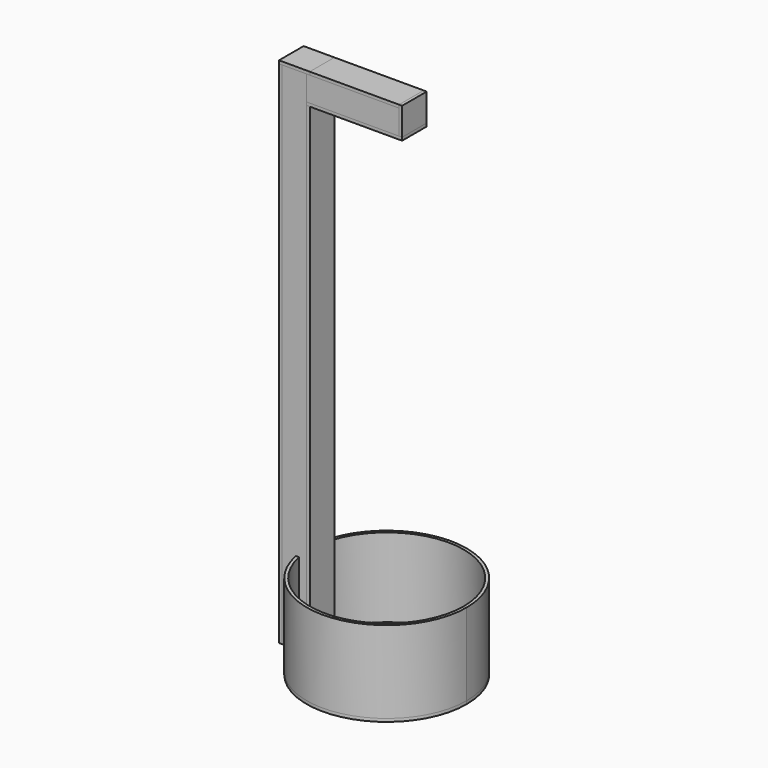
from build123d import *

# Parameters (mm, degrees)
F4_W           = 3
F4_H           = 24
F4_H_2         = 3
F5_DEPTH       = 3
F6_DEPTH       = 3
F7_DEPTH       = 80
F8_DEPTH       = 500
F9_DEPTH       = 500
F10_DEPTH      = 473
F11_W          = 3
F11_H          = 24
F11_H_2        = 3
F12_DEPTH      = 90
F12_DEPTH_BACK = 3
F11_W_2        = 24
F13_DEPTH      = 90
F13_DEPTH_BACK = 3
F14_W          = 30
F14_H          = 27
F14_H_2        = 3
F15_DEPTH      = 3
F16_W          = 27
F16_H          = 30
F16_W_2        = 3
F17_DEPTH      = 3
F18_R          = 3
F19_DEPTH      = 488


with BuildPart() as f5:
    # F4 (on Top) → F5 (new body)
    with BuildSketch(Plane.XY):
        with BuildLine():
            Line((-68.3739716559, 15), (-73.4846922835, 15))
            ThreePointArc((-73.4846922835, 15), (-73.7744849304, 13.5027913134), (-74.0337760755, 12))
            Line((-74.0337760755, 12), (-68.9637585983, 12))
            ThreePointArc((-68.9637585983, 12), (-68.6852461438, 13.5032204366), (-68.3739716559, 15))
        make_face()
        with BuildLine():
            Line((-68.9637585983, 12), (-74.0337760755, 12))
            ThreePointArc((-74.0337760755, 12), (-75, 0), (-74.0337760755, -12))
            Line((-74.0337760755, -12), (-68.9637585983, -12))
            ThreePointArc((-68.9637585983, -12), (-70, 0), (-68.9637585983, 12))
        make_face()
        with BuildLine():
            ThreePointArc((-74.0337760755, -12), (-73.7744849304, -13.5027913134), (-73.4846922835, -15))
            Line((-73.4846922835, -15), (-68.3739716559, -15))
            ThreePointArc((-68.3739716559, -15), (-68.6852461438, -13.5032204366), (-68.9637585983, -12))
            Line((-68.9637585983, -12), (-74.0337760755, -12))
        make_face()
        with BuildLine():
            ThreePointArc((-73.4846922835, -15), (7.5381721504, -74.6202114754), (75, 0))
            ThreePointArc((75, 0), (7.5381721504, 74.6202114754), (-73.4846922835, 15))
            Line((-73.4846922835, 15), (-68.3739716559, 15))
            ThreePointArc((-68.3739716559, 15), (7.5439374364, 69.5923056663), (70, 0))
            ThreePointArc((70, 0), (7.5439374364, -69.5923056663), (-68.3739716559, -15))
            Line((-68.3739716559, -15), (-73.4846922835, -15))
        make_face()
        with BuildLine():
            ThreePointArc((-74.0337760755, 12), (-73.7744849304, 13.5027913134), (-73.4846922835, 15))
            Line((-73.4846922835, 15), (-76.544104933, 15))
            ThreePointArc((-76.544104933, 15), (-76.8223957656, 13.5025741556), (-77.071395472, 12))
            Line((-77.071395472, 12), (-74.0337760755, 12))
        make_face()
        with BuildLine():
            ThreePointArc((-74.0337760755, -12), (-75, 0), (-74.0337760755, 12))
            Line((-74.0337760755, 12), (-77.071395472, 12))
            ThreePointArc((-77.071395472, 12), (-78, 0), (-77.071395472, -12))
            Line((-77.071395472, -12), (-74.0337760755, -12))
        make_face()
        with BuildLine():
            Line((-76.544104933, -15), (-73.4846922835, -15))
            ThreePointArc((-73.4846922835, -15), (-73.7744849304, -13.5027913134), (-74.0337760755, -12))
            Line((-74.0337760755, -12), (-77.071395472, -12))
            ThreePointArc((-77.071395472, -12), (-76.8223957656, -13.5025741556), (-76.544104933, -15))
        make_face()
        with BuildLine():
            ThreePointArc((-73.4846922835, 15), (7.5381721504, 74.6202114754), (75, 0))
            ThreePointArc((75, 0), (7.5381721504, -74.6202114754), (-73.4846922835, -15))
            Line((-73.4846922835, -15), (-76.544104933, -15))
            ThreePointArc((-76.544104933, -15), (7.5352443631, -77.6351730364), (78, 0))
            ThreePointArc((78, 0), (7.5352443631, 77.6351730364), (-76.544104933, 15))
            Line((-76.544104933, 15), (-73.4846922835, 15))
        make_face()
        with BuildLine():
            Line((-66, 12), (-68.9637585983, 12))
            ThreePointArc((-68.9637585983, 12), (-70, 0), (-68.9637585983, -12))
            Line((-68.9637585983, -12), (-66, -12))
            Line((-66, -12), (-66, 12))
        make_face()
        with BuildLine():
            ThreePointArc((70, 0), (7.5439374364, 69.5923056663), (-68.3739716559, 15))
            Line((-68.3739716559, 15), (-66, 15))
            Line((-66, 15), (-63, 15))
            Line((-63, 15), (-63, 12))
            Line((-63, 12), (-63, -12))
            Line((-63, -12), (-63, -15))
            Line((-63, -15), (-66, -15))
            Line((-66, -15), (-68.3739716559, -15))
            ThreePointArc((-68.3739716559, -15), (7.5439374364, -69.5923056663), (70, 0))
        make_face()
        with BuildLine():
            Line((-66, 15), (-68.3739716559, 15))
            ThreePointArc((-68.3739716559, 15), (-68.6852461438, 13.5032204366), (-68.9637585983, 12))
            Line((-68.9637585983, 12), (-66, 12))
            Line((-66, 12), (-66, 15))
        make_face()
        with Locations((-64.5, 0)):
            Rectangle(F4_W, F4_H)
        with Locations((-64.5, 13.5)):
            Rectangle(F4_W, F4_H_2)
        with BuildLine():
            ThreePointArc((-68.9637585983, -12), (-68.6852461438, -13.5032204366), (-68.3739716559, -15))
            Line((-68.3739716559, -15), (-66, -15))
            Line((-66, -15), (-66, -12))
            Line((-66, -12), (-68.9637585983, -12))
        make_face()
        with Locations((-64.5, -13.5)):
            Rectangle(F4_W, F4_H_2)
    extrude(amount=-F5_DEPTH)


with BuildPart() as f6:
    # F4 (on Top) → F6 (new body)
    with BuildSketch(Plane.XY):
        with BuildLine():
            ThreePointArc((-73.4846922835, -15), (7.5381721504, -74.6202114754), (75, 0))
            ThreePointArc((75, 0), (7.5381721504, 74.6202114754), (-73.4846922835, 15))
            Line((-73.4846922835, 15), (-68.3739716559, 15))
            ThreePointArc((-68.3739716559, 15), (7.5439374364, 69.5923056663), (70, 0))
            ThreePointArc((70, 0), (7.5439374364, -69.5923056663), (-68.3739716559, -15))
            Line((-68.3739716559, -15), (-73.4846922835, -15))
        make_face()
    extrude(amount=F6_DEPTH)


with BuildPart() as f7:
    # F4 (on Top) → F7 (new body)
    with BuildSketch(Plane.XY):
        with BuildLine():
            ThreePointArc((-73.4846922835, 15), (7.5381721504, 74.6202114754), (75, 0))
            ThreePointArc((75, 0), (7.5381721504, -74.6202114754), (-73.4846922835, -15))
            Line((-73.4846922835, -15), (-76.544104933, -15))
            ThreePointArc((-76.544104933, -15), (7.5352443631, -77.6351730364), (78, 0))
            ThreePointArc((78, 0), (7.5352443631, 77.6351730364), (-76.544104933, 15))
            Line((-76.544104933, 15), (-73.4846922835, 15))
        make_face()
        with BuildLine():
            ThreePointArc((-74.0337760755, 12), (-73.7744849304, 13.5027913134), (-73.4846922835, 15))
            Line((-73.4846922835, 15), (-76.544104933, 15))
            ThreePointArc((-76.544104933, 15), (-76.8223957656, 13.5025741556), (-77.071395472, 12))
            Line((-77.071395472, 12), (-74.0337760755, 12))
        make_face()
        with BuildLine():
            Line((-76.544104933, -15), (-73.4846922835, -15))
            ThreePointArc((-73.4846922835, -15), (-73.7744849304, -13.5027913134), (-74.0337760755, -12))
            Line((-74.0337760755, -12), (-77.071395472, -12))
            ThreePointArc((-77.071395472, -12), (-76.8223957656, -13.5025741556), (-76.544104933, -15))
        make_face()
    extrude(amount=F7_DEPTH)


with BuildPart() as f8:
    # F4 (on Top) → F8 (new body)
    with BuildSketch(Plane.XY):
        with BuildLine():
            ThreePointArc((-77.071395472, 12), (-76.8223957656, 13.5025741556), (-76.544104933, 15))
            Line((-76.544104933, 15), (-90, 15))
            Line((-90, 15), (-90, 12))
            Line((-90, 12), (-77.071395472, 12))
        make_face()
        with BuildLine():
            ThreePointArc((-74.0337760755, 12), (-73.7744849304, 13.5027913134), (-73.4846922835, 15))
            Line((-73.4846922835, 15), (-76.544104933, 15))
            ThreePointArc((-76.544104933, 15), (-76.8223957656, 13.5025741556), (-77.071395472, 12))
            Line((-77.071395472, 12), (-74.0337760755, 12))
        make_face()
        with BuildLine():
            Line((-68.3739716559, 15), (-73.4846922835, 15))
            ThreePointArc((-73.4846922835, 15), (-73.7744849304, 13.5027913134), (-74.0337760755, 12))
            Line((-74.0337760755, 12), (-68.9637585983, 12))
            ThreePointArc((-68.9637585983, 12), (-68.6852461438, 13.5032204366), (-68.3739716559, 15))
        make_face()
        with BuildLine():
            Line((-66, 15), (-68.3739716559, 15))
            ThreePointArc((-68.3739716559, 15), (-68.6852461438, 13.5032204366), (-68.9637585983, 12))
            Line((-68.9637585983, 12), (-66, 12))
            Line((-66, 12), (-66, 15))
        make_face()
        with Locations((-64.5, 13.5)):
            Rectangle(F4_W, F4_H_2)
        with Locations((-91.5, 13.5)):
            Rectangle(F4_W, F4_H_2)
    extrude(amount=F8_DEPTH)


with BuildPart() as f8b:
    # F4 (on Top) → F8, piece 2 (new body)
    with BuildSketch(Plane.XY):
        with Locations((-64.5, -13.5)):
            Rectangle(F4_W, F4_H_2)
        with BuildLine():
            ThreePointArc((-68.9637585983, -12), (-68.6852461438, -13.5032204366), (-68.3739716559, -15))
            Line((-68.3739716559, -15), (-66, -15))
            Line((-66, -15), (-66, -12))
            Line((-66, -12), (-68.9637585983, -12))
        make_face()
        with BuildLine():
            ThreePointArc((-74.0337760755, -12), (-73.7744849304, -13.5027913134), (-73.4846922835, -15))
            Line((-73.4846922835, -15), (-68.3739716559, -15))
            ThreePointArc((-68.3739716559, -15), (-68.6852461438, -13.5032204366), (-68.9637585983, -12))
            Line((-68.9637585983, -12), (-74.0337760755, -12))
        make_face()
        with BuildLine():
            Line((-76.544104933, -15), (-73.4846922835, -15))
            ThreePointArc((-73.4846922835, -15), (-73.7744849304, -13.5027913134), (-74.0337760755, -12))
            Line((-74.0337760755, -12), (-77.071395472, -12))
            ThreePointArc((-77.071395472, -12), (-76.8223957656, -13.5025741556), (-76.544104933, -15))
        make_face()
        with BuildLine():
            Line((-90, -15), (-76.544104933, -15))
            ThreePointArc((-76.544104933, -15), (-76.8223957656, -13.5025741556), (-77.071395472, -12))
            Line((-77.071395472, -12), (-90, -12))
            Line((-90, -12), (-90, -15))
        make_face()
        with Locations((-91.5, -13.5)):
            Rectangle(F4_W, F4_H_2)
    extrude(amount=F8_DEPTH)


with BuildPart() as f9:
    # F4 (on Top) → F9 (new body)
    with BuildSketch(Plane.XY):
        with Locations((-91.5, 0)):
            Rectangle(F4_W, F4_H)
        with Locations((-91.5, -13.5)):
            Rectangle(F4_W, F4_H_2)
        with Locations((-91.5, 13.5)):
            Rectangle(F4_W, F4_H_2)
    extrude(amount=F9_DEPTH)


with BuildPart() as f10:
    # F4 (on Top) → F10 (new body)
    with BuildSketch(Plane.XY):
        with Locations((-64.5, 0)):
            Rectangle(F4_W, F4_H)
        with Locations((-64.5, -13.5)):
            Rectangle(F4_W, F4_H_2)
        with Locations((-64.5, 13.5)):
            Rectangle(F4_W, F4_H_2)
    extrude(amount=F10_DEPTH)


with BuildPart() as f12:
    # F11 (on face) → F12 (new body, two sides)
    with BuildSketch(Plane.YZ.offset(-63)) as f12_sk:
        with Locations((-13.5, 485)):
            Rectangle(F11_W, F11_H)
        with Locations((-13.5, 498.5)):
            Rectangle(F11_W, F11_H_2)
        with Locations((-13.5, 471.5)):
            Rectangle(F11_W, F11_H_2)
    extrude(amount=F12_DEPTH)
    extrude(f12_sk.sketch, amount=-F12_DEPTH_BACK)


with BuildPart() as f12b:
    # F11 (on face) → F12, piece 2 (new body, two sides)
    with BuildSketch(Plane.YZ.offset(-63)) as f12_2_sk:
        with Locations((13.5, 498.5)):
            Rectangle(F11_W, F11_H_2)
        with Locations((13.5, 485)):
            Rectangle(F11_W, F11_H)
        with Locations((13.5, 471.5)):
            Rectangle(F11_W, F11_H_2)
    extrude(amount=F12_DEPTH)
    extrude(f12_2_sk.sketch, amount=-F12_DEPTH_BACK)


with BuildPart() as f13:
    # F11 (on face) → F13 (new body, two sides)
    with BuildSketch(Plane.YZ.offset(-63)) as f13_sk:
        with Locations((0, 498.5)):
            Rectangle(F11_W_2, F11_H_2)
        with Locations((-13.5, 498.5)):
            Rectangle(F11_W, F11_H_2)
        with Locations((13.5, 498.5)):
            Rectangle(F11_W, F11_H_2)
    extrude(amount=F13_DEPTH)
    extrude(f13_sk.sketch, amount=-F13_DEPTH_BACK)


with BuildPart() as f13b:
    # F11 (on face) → F13, piece 2 (new body, two sides)
    with BuildSketch(Plane.YZ.offset(-63)) as f13_2_sk:
        with Locations((13.5, 471.5)):
            Rectangle(F11_W, F11_H_2)
        with Locations((0, 471.5)):
            Rectangle(F11_W_2, F11_H_2)
        with Locations((-13.5, 471.5)):
            Rectangle(F11_W, F11_H_2)
    extrude(amount=F13_DEPTH)
    extrude(f13_2_sk.sketch, amount=-F13_DEPTH_BACK)


with BuildPart() as f15:
    # F14 (on face) → F15 (new body)
    with BuildSketch(Plane.YZ.offset(27)):
        with Locations((0, 483.5)):
            Rectangle(F14_W, F14_H)
        with Locations((0, 498.5)):
            Rectangle(F14_W, F14_H_2)
    extrude(amount=-F15_DEPTH)


with BuildPart() as f17:
    # F16 (on face) → F17 (new body)
    with BuildSketch(Plane.XY.offset(500)):
        with Locations((-76.5, 0)):
            Rectangle(F16_W, F16_H)
        with Locations((-91.5, 0)):
            Rectangle(F16_W_2, F16_H)
    extrude(amount=-F17_DEPTH)


with BuildPart() as f19:
    # F18 (on face) → F19 (new body)
    with BuildSketch(Plane(origin=(0, 0, -3), x_dir=(1, 0, 0), z_dir=(0, 0, -1))):
        Circle(F18_R)
    extrude(amount=-F19_DEPTH)


with BuildPart() as f13b_1:
    add(f13b.part)

    # F20: cut F19
    add(f19.part, mode=Mode.SUBTRACT)


solid = Compound([f5.part, f6.part, f7.part, f8.part, f8b.part, f9.part, f10.part, f12.part, f12b.part, f13.part, f15.part, f17.part, f13b_1.part])
